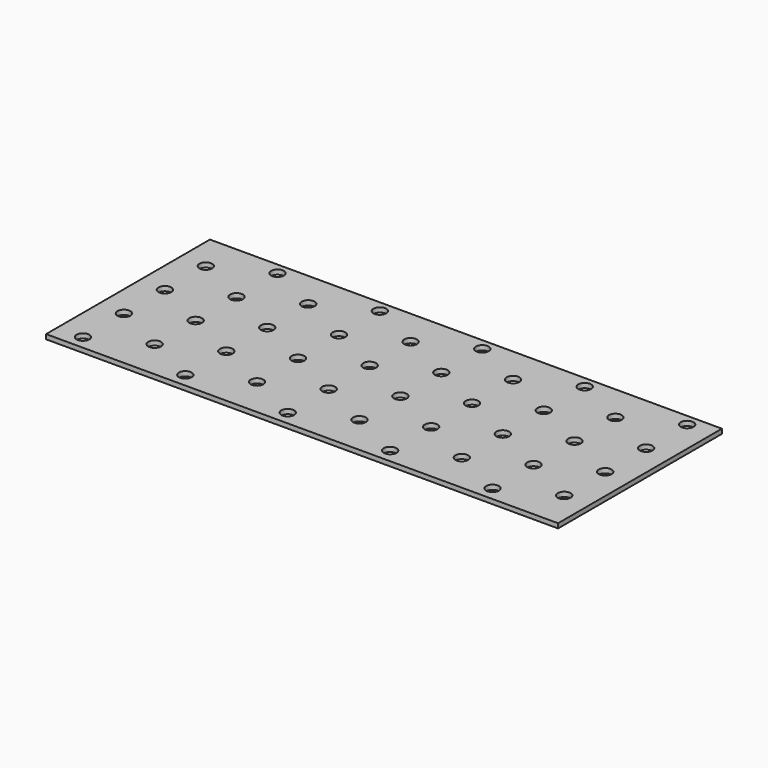
from build123d import *

# Parameters (mm, degrees)
SKETCH_W  = 200
SKETCH_H  = 80
SKETCH_R  = 2.5
PAD_DEPTH = 1.8


with BuildPart() as part:
    # Sketch → Pad (new body)
    with BuildSketch(Plane.XY):
        with Locations((90, 34.5)):
            Rectangle(SKETCH_W, SKETCH_H)
        Circle(SKETCH_R, mode=Mode.SUBTRACT)
        with Locations((0, 20)):
            Circle(SKETCH_R, mode=Mode.SUBTRACT)
        with Locations((0, 40)):
            Circle(SKETCH_R, mode=Mode.SUBTRACT)
        with Locations((0, 60)):
            Circle(SKETCH_R, mode=Mode.SUBTRACT)
        with Locations((20, 10)):
            Circle(SKETCH_R, mode=Mode.SUBTRACT)
        with Locations((20, 30)):
            Circle(SKETCH_R, mode=Mode.SUBTRACT)
        with Locations((20, 50)):
            Circle(SKETCH_R, mode=Mode.SUBTRACT)
        with Locations((20, 70)):
            Circle(SKETCH_R, mode=Mode.SUBTRACT)
        with Locations((40, 0)):
            Circle(SKETCH_R, mode=Mode.SUBTRACT)
        with Locations((40, 20)):
            Circle(SKETCH_R, mode=Mode.SUBTRACT)
        with Locations((40, 40)):
            Circle(SKETCH_R, mode=Mode.SUBTRACT)
        with Locations((40, 60)):
            Circle(SKETCH_R, mode=Mode.SUBTRACT)
        with Locations((60, 10)):
            Circle(SKETCH_R, mode=Mode.SUBTRACT)
        with Locations((60, 30)):
            Circle(SKETCH_R, mode=Mode.SUBTRACT)
        with Locations((60, 50)):
            Circle(SKETCH_R, mode=Mode.SUBTRACT)
        with Locations((60, 70)):
            Circle(SKETCH_R, mode=Mode.SUBTRACT)
        with Locations((80, 0)):
            Circle(SKETCH_R, mode=Mode.SUBTRACT)
        with Locations((80, 20)):
            Circle(SKETCH_R, mode=Mode.SUBTRACT)
        with Locations((80, 40)):
            Circle(SKETCH_R, mode=Mode.SUBTRACT)
        with Locations((80, 60)):
            Circle(SKETCH_R, mode=Mode.SUBTRACT)
        with Locations((100, 10)):
            Circle(SKETCH_R, mode=Mode.SUBTRACT)
        with Locations((100, 30)):
            Circle(SKETCH_R, mode=Mode.SUBTRACT)
        with Locations((100, 50)):
            Circle(SKETCH_R, mode=Mode.SUBTRACT)
        with Locations((100, 70)):
            Circle(SKETCH_R, mode=Mode.SUBTRACT)
        with Locations((120, 0)):
            Circle(SKETCH_R, mode=Mode.SUBTRACT)
        with Locations((120, 20)):
            Circle(SKETCH_R, mode=Mode.SUBTRACT)
        with Locations((120, 40)):
            Circle(SKETCH_R, mode=Mode.SUBTRACT)
        with Locations((120, 60)):
            Circle(SKETCH_R, mode=Mode.SUBTRACT)
        with Locations((140, 10)):
            Circle(SKETCH_R, mode=Mode.SUBTRACT)
        with Locations((140, 30)):
            Circle(SKETCH_R, mode=Mode.SUBTRACT)
        with Locations((140, 50)):
            Circle(SKETCH_R, mode=Mode.SUBTRACT)
        with Locations((140, 70)):
            Circle(SKETCH_R, mode=Mode.SUBTRACT)
        with Locations((160, 0)):
            Circle(SKETCH_R, mode=Mode.SUBTRACT)
        with Locations((160, 20)):
            Circle(SKETCH_R, mode=Mode.SUBTRACT)
        with Locations((160, 40)):
            Circle(SKETCH_R, mode=Mode.SUBTRACT)
        with Locations((160, 60)):
            Circle(SKETCH_R, mode=Mode.SUBTRACT)
        with Locations((180, 10)):
            Circle(SKETCH_R, mode=Mode.SUBTRACT)
        with Locations((180, 30)):
            Circle(SKETCH_R, mode=Mode.SUBTRACT)
        with Locations((180, 50)):
            Circle(SKETCH_R, mode=Mode.SUBTRACT)
        with Locations((180, 70)):
            Circle(SKETCH_R, mode=Mode.SUBTRACT)
    extrude(amount=PAD_DEPTH)


solid = part.part
